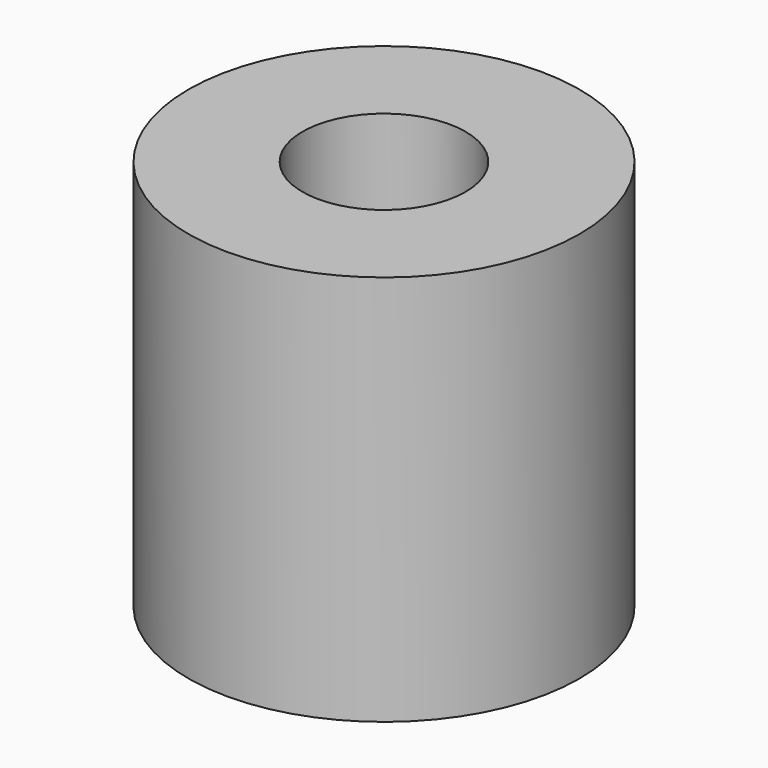
from build123d import *

# Parameters (mm, degrees)
CYLINDER022_R     = 1.25
CYLINDER022_DEPTH = 5
CYLINDER010_R     = 3
CYLINDER010_DEPTH = 6


with BuildPart() as obj1:
    # Cylinder022 → Cylinder022 (new body)
    with BuildSketch(Plane(origin=(30, 14, 3), x_dir=(1, 0, 0), z_dir=(0, 0, 1))):
        Circle(CYLINDER022_R)
    extrude(amount=CYLINDER022_DEPTH)


with BuildPart() as h_cut006:
    # Cylinder010 → Cylinder010 (new body)
    with BuildSketch(Plane(origin=(30, 14, 0), x_dir=(1, 0, 0), z_dir=(0, 0, 1))):
        Circle(CYLINDER010_R)
    extrude(amount=CYLINDER010_DEPTH)

    # Cut006: cut obj1
    add(obj1.part, mode=Mode.SUBTRACT)


with BuildPart() as h_cut006_1:
    # Cut006 placement: moved
    add(h_cut006.part.moved(Location((35, -6.5, 0))))


solid = h_cut006_1.part
